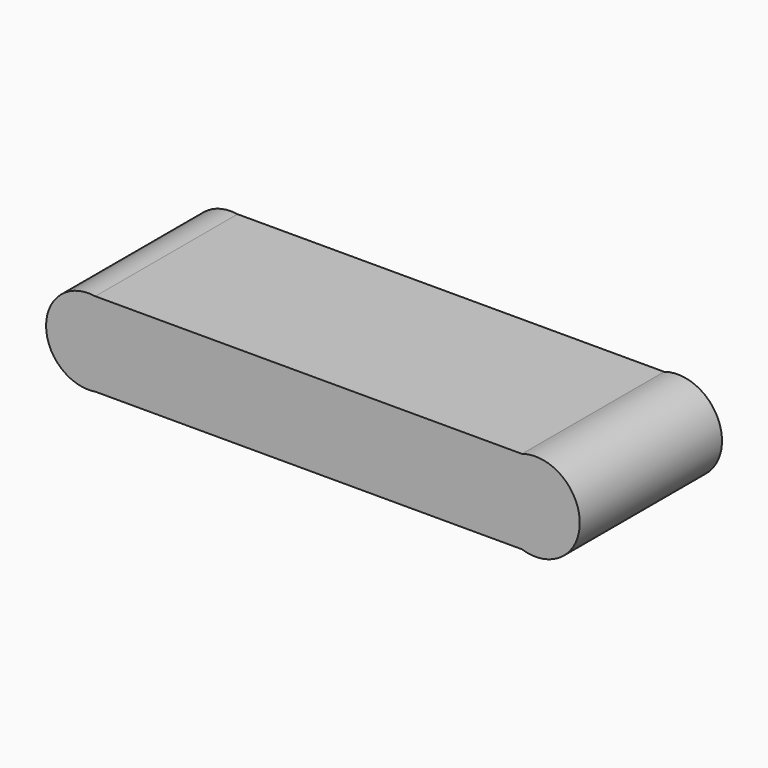
from build123d import *

# Parameters (mm, degrees)
F0_W     = 60
F0_H     = 11.812499
F1_DEPTH = 25


with BuildPart() as f1:
    # F0 (on Front) → F1 (new body)
    with BuildSketch(Plane.XZ):
        with Locations((-4.002645, -0.036885)):
            Rectangle(F0_W, F0_H)
        with BuildLine():
            Line((-34.002645, -5.943135), (-34.002645, 5.869364))
            ThreePointArc((-34.002645, 5.869364), (-40.920335, -0.036885), (-34.002645, -5.943135))
        make_face()
        with BuildLine():
            ThreePointArc((25.997355, -5.943135), (34.133225, -0.036885), (25.997355, 5.869364))
            Line((25.997355, 5.869364), (25.997355, -5.943135))
        make_face()
    extrude(amount=F1_DEPTH)


solid = f1.part
